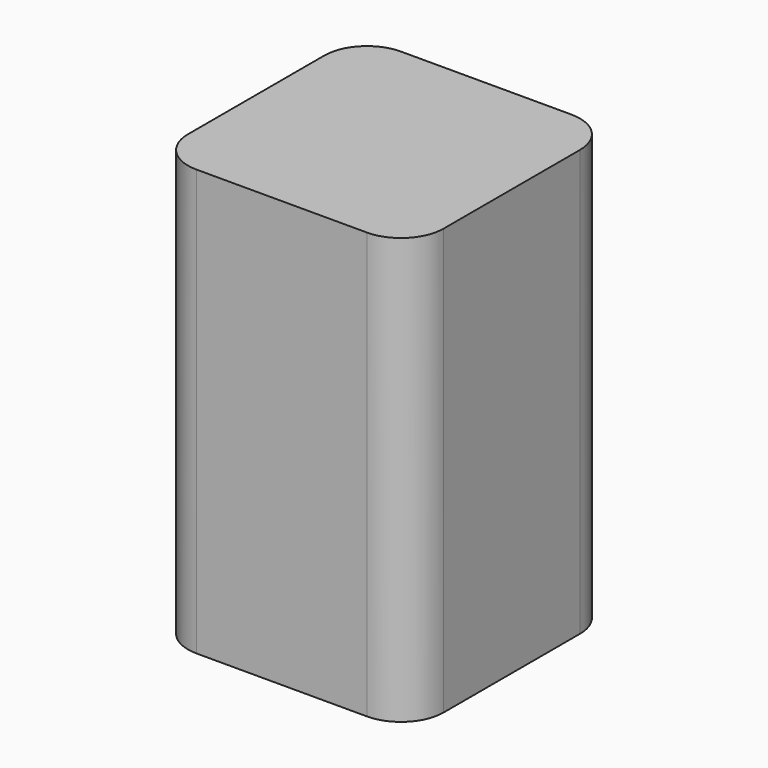
from build123d import *

# Parameters (mm, degrees)
F1_DEPTH = 63.5
F2_W     = 12.7
F2_H     = 190.5
F4_DEPTH = 0.254
F3_W     = 12.7
F3_H     = 190.5
F5_DEPTH = 0.254


with BuildPart() as f1:
    # F0 (on Top) → F1 (new body)
    with BuildSketch(Plane.XY):
        with BuildLine():
            ThreePointArc((19.05, 12.7), (17.190128, 17.190128), (12.7, 19.05))
            Line((12.7, 19.05), (-12.7, 19.05))
            ThreePointArc((-12.7, 19.05), (-17.190128, 17.190128), (-19.05, 12.7))
            Line((-19.05, 12.7), (-19.05, -12.7))
            ThreePointArc((-19.05, -12.7), (-17.190128, -17.190128), (-12.7, -19.05))
            Line((-12.7, -19.05), (12.7, -19.05))
            ThreePointArc((12.7, -19.05), (17.190128, -17.190128), (19.05, -12.7))
            Line((19.05, -12.7), (19.05, 12.7))
        make_face()
    extrude(amount=F1_DEPTH)


with BuildPart() as f4:
    # F2 (on Right) → F4 (new body)
    with BuildSketch(Plane.YZ):
        with Locations((-192.550282, 22.601065)):
            Rectangle(F2_W, F2_H)
    extrude(amount=F4_DEPTH)


with BuildPart() as f5:
    # F3 (on Right) → F5 (new body)
    with BuildSketch(Plane.YZ):
        with Locations((175.864179, 24.777815)):
            Rectangle(F3_W, F3_H)
    extrude(amount=F5_DEPTH)


solid = f1.part
